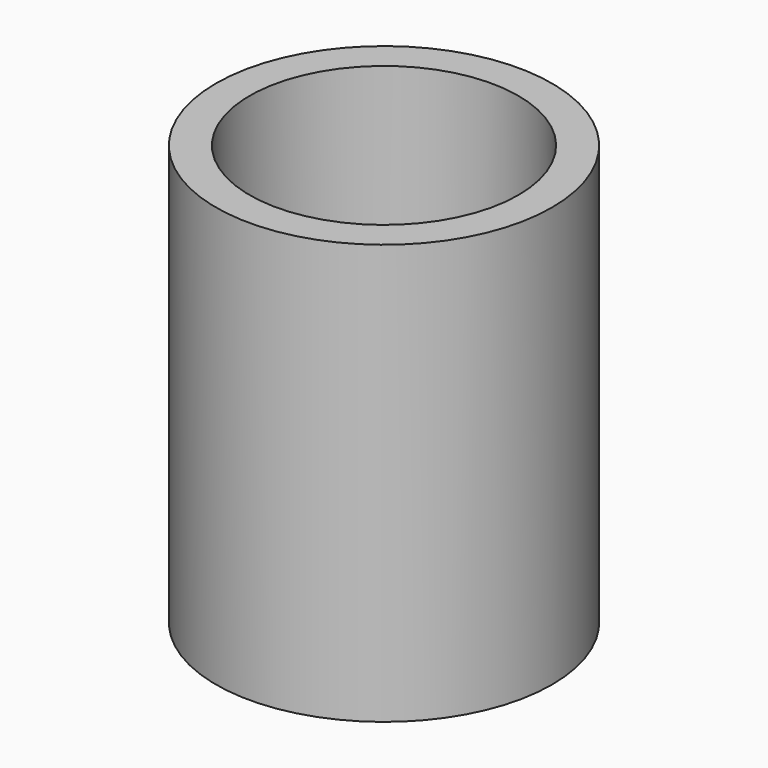
from build123d import *

# Parameters (mm, degrees)
F0_R     = 10
F0_R_2   = 4
F1_DEPTH = 25
F2_R     = 8
F3_DEPTH = 20
F4_DEPTH = 5


with BuildPart() as f1:
    # F0 (on Top) → F1 (new body)
    with BuildSketch(Plane.XY):
        Circle(F0_R)
        Circle(F0_R_2, mode=Mode.SUBTRACT)
    extrude(amount=F1_DEPTH)

    # F2 (on face) → F3 (cut)
    with BuildSketch(Plane.XY.offset(25)):
        Circle(F2_R)
    extrude(amount=-F3_DEPTH, mode=Mode.SUBTRACT)

    # F0 (on Top) → F4 (join)
    with BuildSketch(Plane.XY):
        Circle(F0_R)
        Circle(F0_R_2, mode=Mode.SUBTRACT)
    extrude(amount=F4_DEPTH)


solid = f1.part
